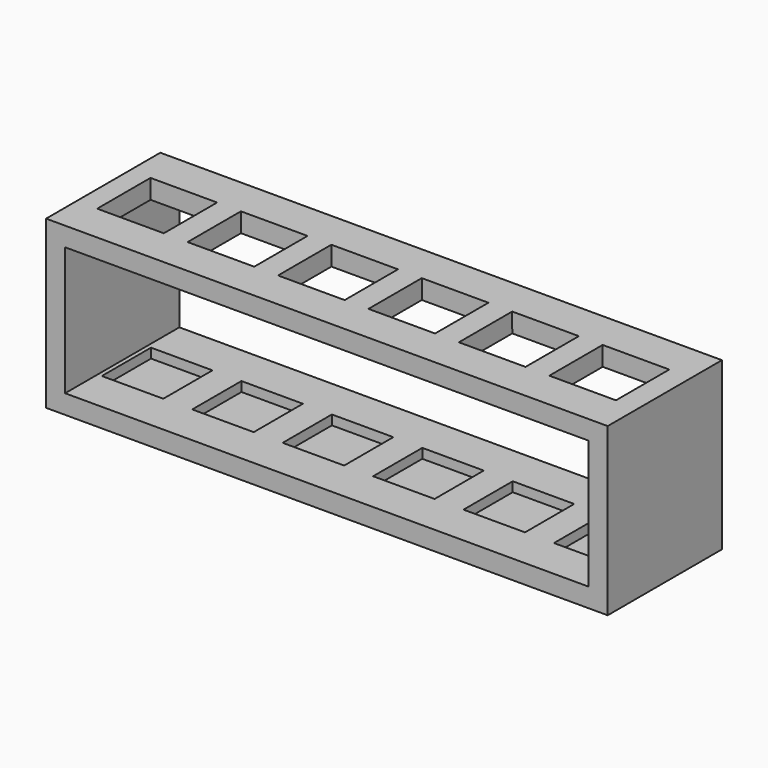
from build123d import *

# Parameters (mm, degrees)
F0_W     = 118
F0_H     = 30
F1_DEPTH = 35
F2_W     = 14
F2_H     = 14
F3_DEPTH = 33
F3_TAPER = 1
F4_W     = 110
F4_H     = 27
F5_DEPTH = 30


with BuildPart() as f1:
    # F0 (on Top) → F1 (new body)
    with BuildSketch(Plane.XY):
        with Locations((-5.2966810763, -25.8255312847)):
            Rectangle(F0_W, F0_H)
    extrude(amount=F1_DEPTH)

    # F2 (on face) → F3 (cut)
    with BuildSketch(Plane.XY.offset(35)):
        with Locations((-52.9612515788, -25.8255312847)):
            Rectangle(F2_W, F2_H)
        with Locations((-33.9612515788, -25.8255312847)):
            Rectangle(F2_W, F2_H)
        with Locations((-14.9612515788, -25.8255312847)):
            Rectangle(F2_W, F2_H)
        with Locations((4.0387484212, -25.8255312847)):
            Rectangle(F2_W, F2_H)
        with Locations((23.0387484212, -25.8255312847)):
            Rectangle(F2_W, F2_H)
        with Locations((42.0387484212, -25.8255312847)):
            Rectangle(F2_W, F2_H)
    extrude(amount=-F3_DEPTH, taper=F3_TAPER, mode=Mode.SUBTRACT)

    # F4 (on face) → F5 (cut)
    with BuildSketch(Plane.XZ.offset(40.8255312847)):
        with Locations((-5.2966810763, 17.5)):
            Rectangle(F4_W, F4_H)
    extrude(amount=-F5_DEPTH, mode=Mode.SUBTRACT)


solid = f1.part
